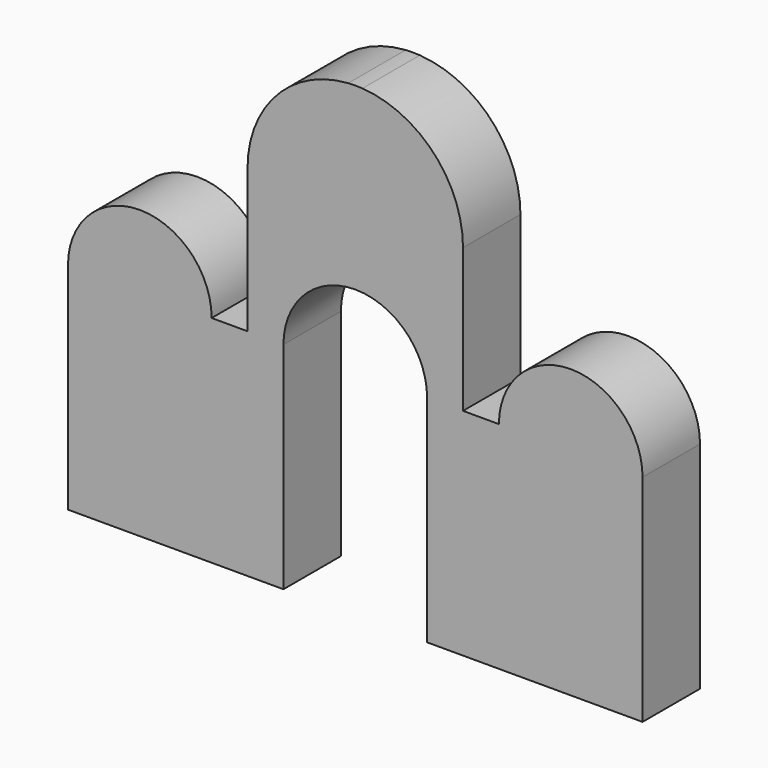
from build123d import *

# Parameters (mm, degrees)
F1_DEPTH = 25.4


with BuildPart() as f1:
    # F0 (on Front) → F1 (new body)
    with BuildSketch(Plane.XZ):
        with BuildLine():
            Line((-27.194828, 51.634797), (-27.194828, -24.565203))
            Line((-27.194828, -24.565203), (49.005172, -24.565203))
            Line((49.005172, -24.565203), (49.005172, 51.634797))
            ThreePointArc((49.005172, 51.634797), (56.44466, 69.595309), (74.405172, 77.034797))
            ThreePointArc((74.405172, 77.034797), (92.365684, 69.595309), (99.805172, 51.634797))
            Line((99.805172, 51.634797), (99.805172, -24.565203))
            Line((99.805172, -24.565203), (176.005172, -24.565203))
            Line((176.005172, -24.565203), (176.005172, 51.634797))
            ThreePointArc((176.005172, 51.634797), (150.605172, 77.034797), (125.205172, 51.634797))
            Line((125.205172, 51.634797), (112.505172, 51.634797))
            Line((112.505172, 51.634797), (112.505172, 102.434797))
            ThreePointArc((112.505172, 102.434797), (102.220372, 128.471784), (76.918575, 140.451804))
            ThreePointArc((76.918575, 140.451804), (74.405172, 140.534797), (71.89177, 140.451804))
            ThreePointArc((71.89177, 140.451804), (46.589973, 128.471784), (36.305172, 102.434797))
            Line((36.305172, 102.434797), (36.305172, 51.634797))
            Line((36.305172, 51.634797), (23.605172, 51.634797))
            ThreePointArc((23.605172, 51.634797), (-1.794828, 77.034797), (-27.194828, 51.634797))
        make_face()
    extrude(amount=F1_DEPTH)


solid = f1.part
